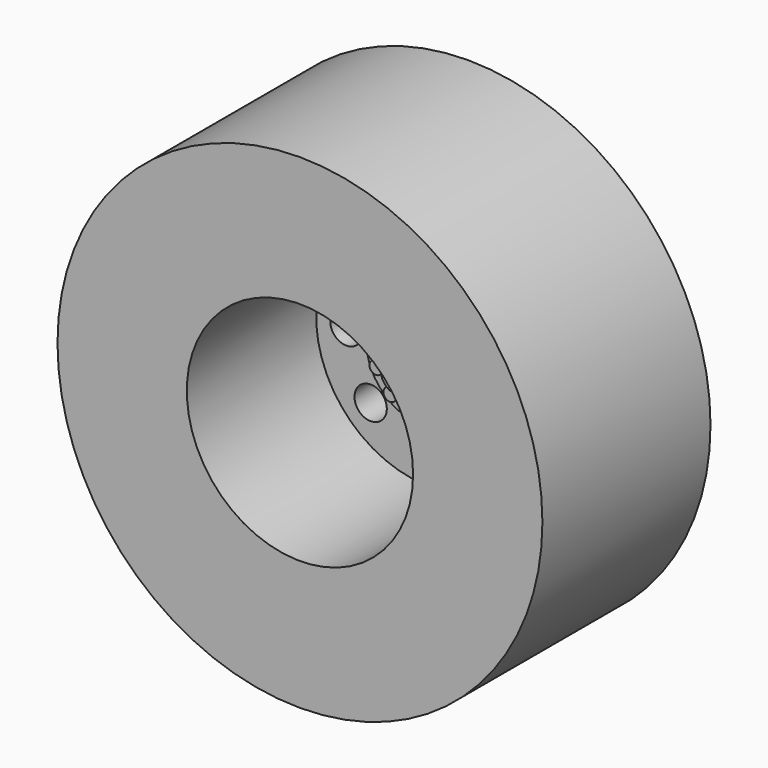
from build123d import *

# Parameters (mm, degrees)
F0_R      = 19.05
F1_DEPTH  = 16.51
F2_R      = 8.89
F4_DEPTH  = 12.7
F3_R      = 1.27
F5_DEPTH  = 25.4
F6_R      = 3.175
F7_DEPTH  = 12.7
F8_R      = 4.445
F9_DEPTH  = 0.635
F10_R     = 1.27
F11_DEPTH = 2.54
F12_R     = 0.508
F13_DEPTH = 1.016
F14_R     = 17.145
F14_R_2   = 12.7
F15_DEPTH = 12.7


with BuildPart() as f1:
    # F0 (on Front) → F1 (new body)
    with BuildSketch(Plane.XZ):
        Circle(F0_R)
    extrude(amount=-F1_DEPTH)

    # F2 (on face) → F4 (cut)
    with BuildSketch(Plane.XZ):
        Circle(F2_R)
    extrude(amount=-F4_DEPTH, mode=Mode.SUBTRACT)

    # F3 (on face) → F5 (cut)
    with BuildSketch(Plane.XZ):
        with Locations((0, 6.510976)):
            Circle(F3_R)
        with Locations((4.603955, 4.603955)):
            Circle(F3_R)
        with Locations((6.510976, 0)):
            Circle(F3_R)
        with Locations((4.603955, -4.603955)):
            Circle(F3_R)
        with Locations((0, -6.510976)):
            Circle(F3_R)
        with Locations((-4.603955, -4.603955)):
            Circle(F3_R)
        with Locations((-6.510976, 0)):
            Circle(F3_R)
        with Locations((-4.603955, 4.603955)):
            Circle(F3_R)
    extrude(amount=-F5_DEPTH, mode=Mode.SUBTRACT)

    # F6 (on face) → F7 (join)
    with BuildSketch(Plane.XZ.offset(-12.7)):
        Circle(F6_R)
    extrude(amount=-F7_DEPTH)

    # F8 (on face) → F9 (join)
    with BuildSketch(Plane.XZ.offset(-12.7)):
        Circle(F8_R)
    extrude(amount=F9_DEPTH)

    # F10 (on face) → F11 (join)
    with BuildSketch(Plane.XZ.offset(-12.065)):
        Circle(F10_R)
    extrude(amount=F11_DEPTH)

    # F12 (on face) → F13 (join)
    with BuildSketch(Plane.XZ.offset(-12.065)):
        with Locations((1.77372, 2.441316)):
            Circle(F12_R)
        with Locations((2.869939, 0.9325)):
            Circle(F12_R)
        with Locations((2.869939, -0.9325)):
            Circle(F12_R)
        with Locations((1.77372, -2.441316)):
            Circle(F12_R)
        with Locations((0, -3.017632)):
            Circle(F12_R)
        with Locations((-1.77372, -2.441316)):
            Circle(F12_R)
        with Locations((-2.869939, -0.9325)):
            Circle(F12_R)
        with Locations((-2.869939, 0.9325)):
            Circle(F12_R)
        with Locations((-1.77372, 2.441316)):
            Circle(F12_R)
        with Locations((0, 3.017632)):
            Circle(F12_R)
    extrude(amount=F13_DEPTH)

    # F14 (on face) → F15 (cut)
    with BuildSketch(Plane(origin=(0, 16.51, 0), x_dir=(-1, 0, 0), z_dir=(0, 1, 0))):
        Circle(F14_R)
        Circle(F14_R_2, mode=Mode.SUBTRACT)
    extrude(amount=-F15_DEPTH, mode=Mode.SUBTRACT)


solid = f1.part
